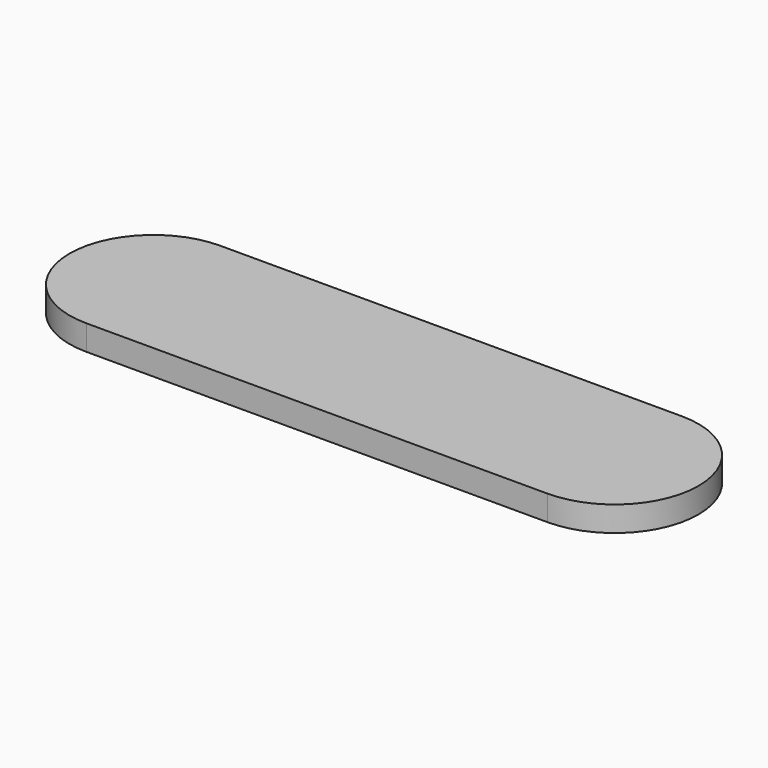
from build123d import *

# Parameters (mm, degrees)
F0_W     = 110
F0_H     = 40
F1_DEPTH = 6


with BuildPart() as f1:
    # F0 (on Top) → F1 (new body)
    with BuildSketch(Plane.XY):
        with BuildLine():
            Line((-53.284571, -19.741652), (-53.284571, 20.258348))
            ThreePointArc((-53.284571, 20.258348), (-73.284571, 0.258348), (-53.284571, -19.741652))
        make_face()
        with BuildLine():
            ThreePointArc((56.715429, -19.741652), (76.715429, 0.258348), (56.715429, 20.258348))
            Line((56.715429, 20.258348), (56.715429, -19.741652))
        make_face()
        with Locations((1.715429, 0.258348)):
            Rectangle(F0_W, F0_H)
    extrude(amount=F1_DEPTH)


solid = f1.part
